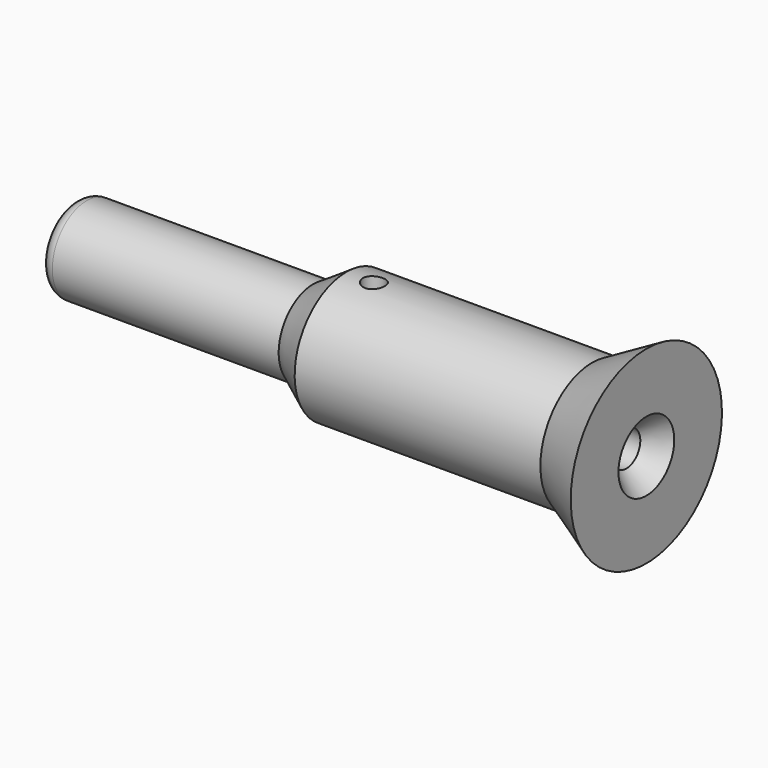
from build123d import *

# Parameters (mm, degrees)
F2_R           = 2.54
F4_D           = 6.7564
F4_DEPTH       = 58.42
F4_CSINK_D     = 13.4874
F4_CSINK_ANGLE = 82
F4_TIP         = 2.0298273432
F6_D           = 4.2164
F6_DEPTH       = 18.2792094926


with BuildPart() as f1:
    # F0 (on Front) → F1 (revolve)
    with BuildSketch(Plane.XZ):
        Polygon((-52.7651011944, 8.2997372374), (-52.7651011944, 0), (58.0023080111, 0), (58.0023080111, 12.5073799863), (58.0023080111, 18.2782094926), (47.5186370313, 12.5073799863), (0, 12.5073799863), (-6.4646434039, 8.2997372374), align=None)
    revolve(axis=Axis((-11.7605924606, 0, 0), (1, 0, 0)))

    # F2
    f2_edges = [f1.edges().sort_by_distance(p)[0] for p in [
        (-52.765101, 0, -8.299737),
    ]]
    fillet(f2_edges, radius=F2_R)

    # F4
    with Locations(Plane.YZ.offset(58.0023080111)):
        with Locations((0, 0)):
            CounterSinkHole(F4_D / 2, F4_CSINK_D / 2, depth=F4_DEPTH, counter_sink_angle=F4_CSINK_ANGLE)
            with Locations((0, 0, -(F4_DEPTH + F4_TIP / 2))):  # 118° drill point
                Cone(0, F4_D / 2, F4_TIP, mode=Mode.SUBTRACT)

    # F6 (through all, one way)
    with BuildSketch(Plane(origin=(0, 0, 0), x_dir=(1, 0, 0), z_dir=(0, 0, -1))):
        with Locations((5.3260941058, 0)):
            Circle(F6_D / 2)
    extrude(amount=-F6_DEPTH, mode=Mode.SUBTRACT)


solid = f1.part
